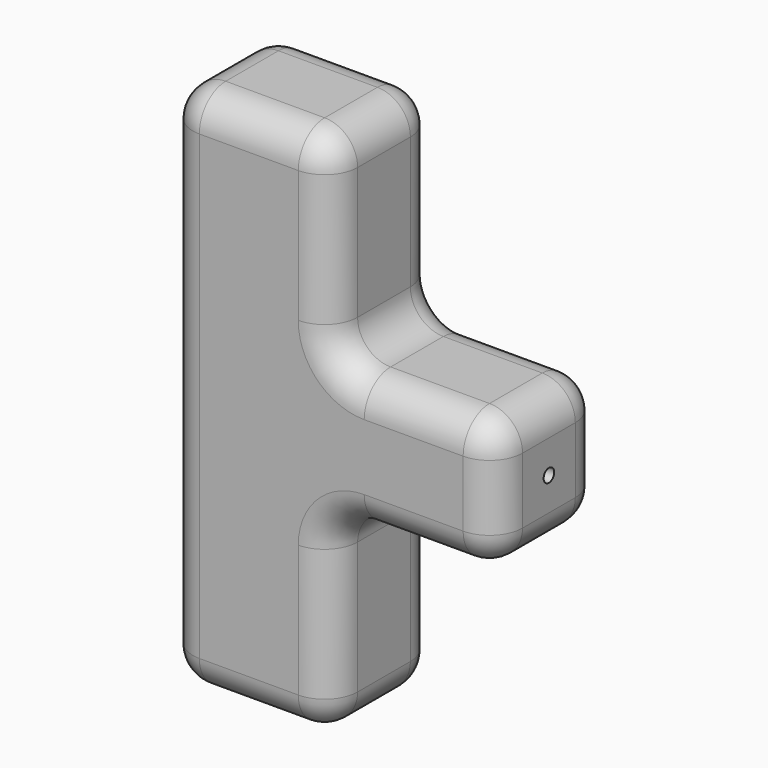
from build123d import *

# Parameters (mm, degrees)
F0_W     = 25
F0_H     = 20
F1_DEPTH = 20
F2_R     = 5
F3_R     = 1
F4_DEPTH = 30


with BuildPart() as f1:
    # F0 (on Front) → F1 (new body)
    with BuildSketch(Plane.XZ):
        Polygon((-25, 0), (0, 0), (0, 30), (0, 50), (0, 80), (-25, 80), align=None)
        with Locations((12.5, 40)):
            Rectangle(F0_W, F0_H)
    extrude(amount=F1_DEPTH)

    # F2
    f2_edges = [f1.edges().sort_by_distance(p)[0] for p in [
        (0, -20, 15),
        (25, -10, 30),
        (0, -10, 30),
        (-25, -10, 80),
        (0, -10, 80),
        (-25, -10, 0),
        (0, -20, 65),
        (0, 0, 65),
        (0, -10, 50),
        (25, -10, 50),
        (-12.5, 0, 0),
        (-12.5, -20, 0),
        (-12.5, 0, 80),
        (-12.5, -20, 80),
        (0, 0, 15),
        (-25, 0, 40),
        (-25, -20, 40),
        (12.5, 0, 30),
        (12.5, -20, 30),
        (12.5, 0, 50),
        (12.5, -20, 50),
        (0, -10, 0),
        (25, 0, 40),
        (25, -20, 40),
    ]]
    fillet(f2_edges, radius=F2_R)

    # F3 (on face) → F4 (cut)
    with BuildSketch(Plane.YZ.offset(25)):
        with Locations((-10, 40)):
            Circle(F3_R)
    extrude(amount=-F4_DEPTH, mode=Mode.SUBTRACT)


solid = f1.part
